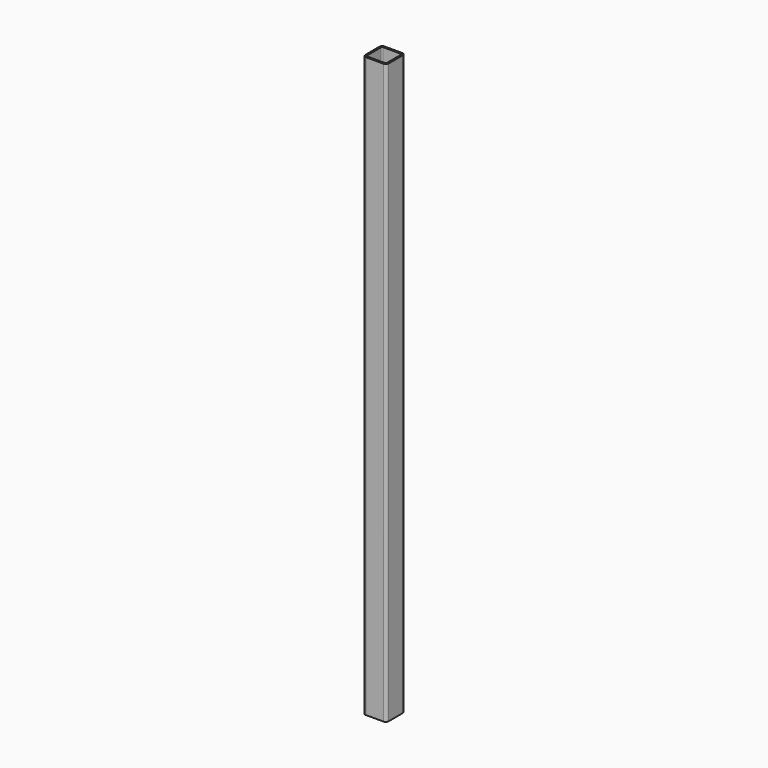
from build123d import *

# Parameters (mm, degrees)
F1_DEPTH = 628.65
F2_T     = -1.89738


with BuildPart() as f1:
    # F0 (on Top) → F1 (new body)
    with BuildSketch(Plane.XY):
        with BuildLine():
            Line((22.225, 0), (3.175, 0))
            ThreePointArc((3.175, 0), (0.929936, -0.929936), (0, -3.175))
            Line((0, -3.175), (0, -22.225))
            ThreePointArc((0, -22.225), (0.929936, -24.470064), (3.175, -25.4))
            Line((3.175, -25.4), (22.225, -25.4))
            ThreePointArc((22.225, -25.4), (24.470064, -24.470064), (25.4, -22.225))
            Line((25.4, -22.225), (25.4, -3.175))
            ThreePointArc((25.4, -3.175), (24.470064, -0.929936), (22.225, 0))
        make_face()
    extrude(amount=F1_DEPTH)

    # F2
    f2_openings = [f1.faces().sort_by_distance(p)[0] for p in [
        (12.7, -12.7, 628.65),
        (12.7, -12.7, 0),
    ]]
    offset(amount=F2_T, openings=f2_openings)


solid = f1.part
